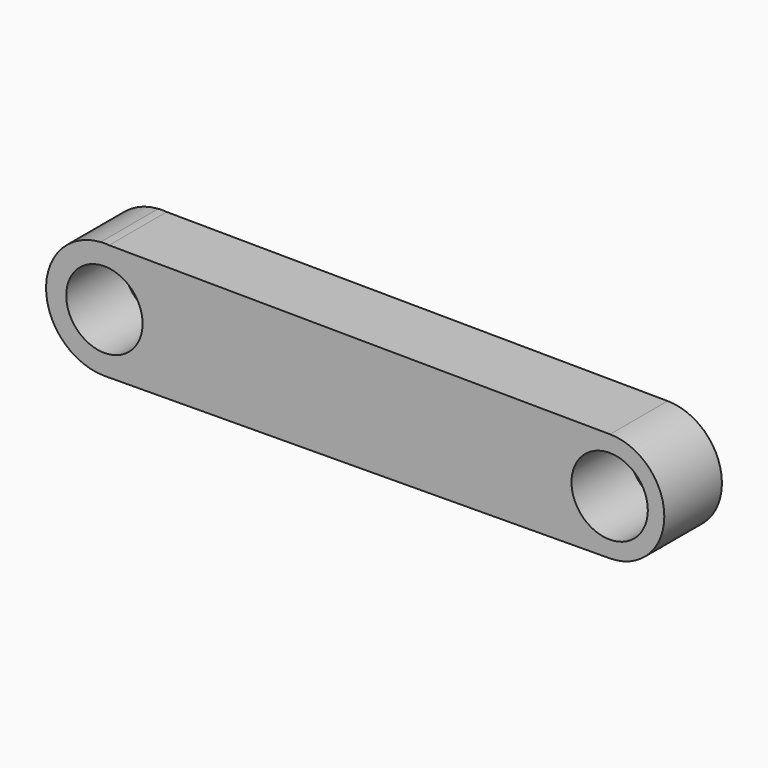
from build123d import *

# Parameters (mm, degrees)
F0_R     = 5.385815
F0_R_2   = 5.385812
F1_DEPTH = 10.16


with BuildPart() as f1:
    # F0 (on Front) → F1 (new body)
    with BuildSketch(Plane.XZ):
        with BuildLine():
            Line((-40.131064, 8.215562), (-38.943939, 8.207193))
            ThreePointArc((-38.943939, 8.207193), (-39.53735, 8.232802), (-40.131064, 8.215562))
        make_face()
        with BuildLine():
            Line((31.730667, 7.708937), (-38.943939, 8.207193))
            Line((-38.943939, 8.207193), (-40.131064, 8.215562))
            ThreePointArc((-40.131064, 8.215562), (-47.824065, -0.267089), (-39.59717, -8.233007))
            Line((-39.59717, -8.233007), (-39.472638, -8.232092))
            Line((-39.472638, -8.232092), (31.732959, -7.70892))
            ThreePointArc((31.732959, -7.70892), (39.385447, 0.001146), (31.730667, 7.708937))
        make_face()
        with Locations((-39.595392, 0)):
            Circle(F0_R, mode=Mode.SUBTRACT)
        with Locations((31.676318, 0)):
            Circle(F0_R_2, mode=Mode.SUBTRACT)
        with BuildLine():
            Line((-39.472638, -8.232092), (-39.59717, -8.233007))
            ThreePointArc((-39.59717, -8.233007), (-39.534903, -8.232785), (-39.472638, -8.232092))
        make_face()
    extrude(amount=F1_DEPTH)


solid = f1.part
